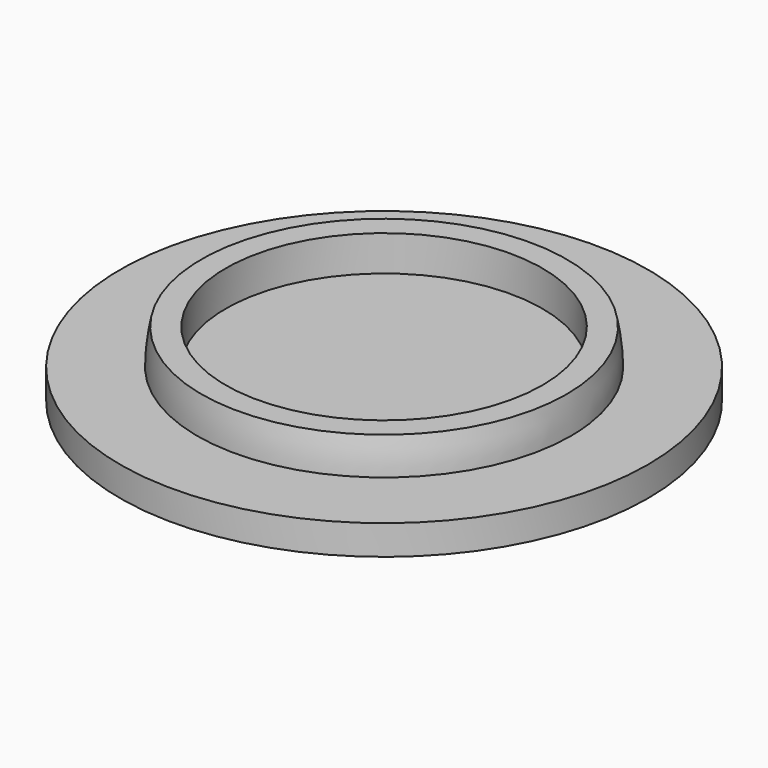
from build123d import *

# Parameters (mm, degrees)
CYLINDER144_R     = 40
CYLINDER144_DEPTH = 4.5
CYLINDER145_R     = 24
CYLINDER145_DEPTH = 7


with BuildPart() as base014:
    # Cylinder144 → Cylinder144 (new body)
    with BuildSketch(Plane(origin=(136, 0, 65), x_dir=(1, 0, 0), z_dir=(0, 0, 1))):
        Circle(CYLINDER144_R)
    extrude(amount=CYLINDER144_DEPTH)


with BuildPart() as basecut003:
    # Cylinder145 → Cylinder145 (new body)
    with BuildSketch(Plane(origin=(5, 0, 74), x_dir=(1, 0, 0), z_dir=(0, 0, 1))):
        Circle(CYLINDER145_R)
    extrude(amount=CYLINDER145_DEPTH)


with BuildPart() as base003:
    # Sphere006 → Sphere006 (revolve)
    with BuildSketch(Plane(origin=(5, 0, 74), x_dir=(1, 0, 0), z_dir=(0, -1, 0))):
        with BuildLine():
            ThreePointArc((28.3, 0), (28.14497, 2.958156), (27.681577, 5.883901))
            Line((27.681577, 5.883901), (0, 5.883901))
            Line((0, 5.883901), (0, 0))
            Line((0, 0), (28.3, 0))
        make_face()
    revolve(axis=Axis((5, 0, 74), (0, 0, 1)))

    # Cut038: cut baseCut003
    add(basecut003.part, mode=Mode.SUBTRACT)


with BuildPart() as base003_1:
    # Cut038 placement: moved
    add(base003.part.moved(Location((131, 0, -5))))

    # Fusion089: union base014
    add(base014.part)


with BuildPart() as base003_2:
    # Fusion089 placement: moved
    add(base003_1.part.moved(Location((-129.5, 10, -315.5))))


solid = base003_2.part
